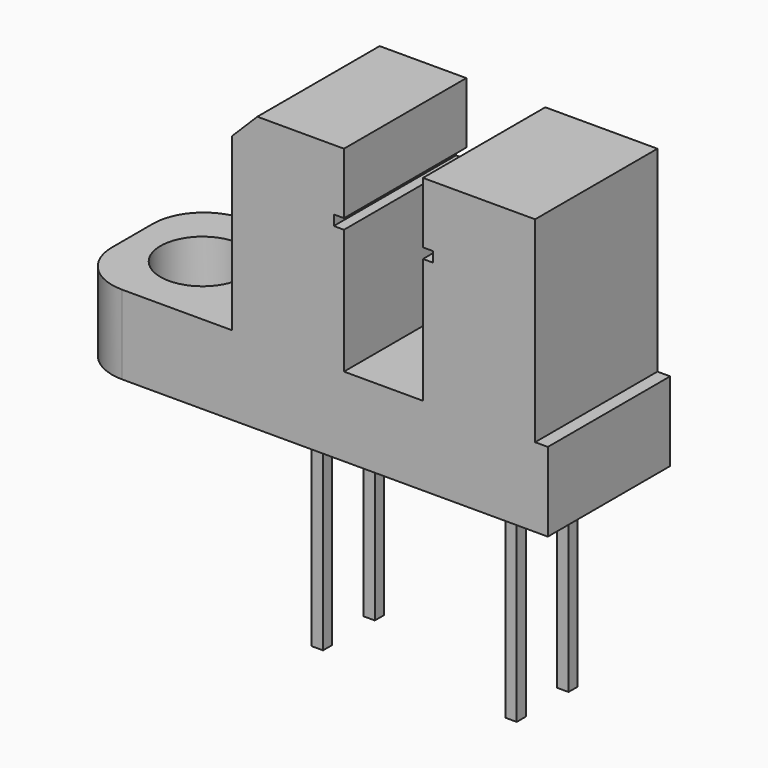
from build123d import *

# Parameters (mm, degrees)
F1_DEPTH = 6
F2_R     = 2
F3_R     = 1.65
F4_DEPTH = 3.1
F3_W     = 0.45
F3_H     = 0.45
F5_DEPTH = 7.8
F6_R     = 1.65
F7_DEPTH = 3.1


with BuildPart() as f1:
    # F0 (on Front) → F1 (new body)
    with BuildSketch(Plane.XZ):
        Polygon((-12.25, 0), (12.25, 0), (12.25, 3.1), (5.95, 3.1), (5.95, 10.8), (1.55, 10.8), (1.55, 8.4), (1.95, 8.4), (1.95, 8), (1.55, 8), (1.55, 3.1), (-1.55, 3.1), (-1.55, 8), (-1.95, 8), (-1.95, 8.4), (-1.55, 8.4), (-1.55, 10.8), (-4.95, 10.8), (-5.95, 9.8), (-5.95, 3.1), (-12.25, 3.1), align=None)
    extrude(amount=-F1_DEPTH)

    # F2
    f2_edges = [f1.edges().sort_by_distance(p)[0] for p in [
        (-12.25, 0, 1.55),
        (12.25, 0, 1.55),
        (12.25, 6, 1.55),
        (-12.25, 6, 1.55),
    ]]
    fillet(f2_edges, radius=F2_R)

    # F3 (on face) → F4 (cut, through all)
    with BuildSketch(Plane(origin=(0, 0, 0), x_dir=(1, 0, 0), z_dir=(0, 0, -1))):
        with Locations((-9.5, -3)):
            Circle(F3_R)
        with Locations((9.5, -3)):
            Circle(F3_R)
    extrude(amount=-F4_DEPTH, mode=Mode.SUBTRACT)

    # F3 (on face) → F5 (join)
    with BuildSketch(Plane(origin=(0, 0, 0), x_dir=(1, 0, 0), z_dir=(0, 0, -1))):
        with Locations((-3.8, -1.73)):
            Rectangle(F3_W, F3_H)
        with Locations((-3.8, -4.27)):
            Rectangle(F3_W, F3_H)
        with Locations((3.8, -4.27)):
            Rectangle(F3_W, F3_H)
        with Locations((3.8, -1.73)):
            Rectangle(F3_W, F3_H)
    extrude(amount=F5_DEPTH)

    # F6 (on face) → F7 (cut, through all)
    with BuildSketch(Plane.XY.offset(3.1)):
        with BuildLine():
            Line((10.25, 6), (6.45, 6))
            Line((6.45, 6), (6.45, 0))
            Line((6.45, 0), (10.25, 0))
            ThreePointArc((10.25, 0), (11.6642135624, 0.5857864376), (12.25, 2))
            Line((12.25, 2), (12.25, 4))
            ThreePointArc((12.25, 4), (11.6642135624, 5.4142135624), (10.25, 6))
        make_face()
        with Locations((9.5, 3)):
            Circle(F6_R, mode=Mode.SUBTRACT)
    extrude(amount=-F7_DEPTH, mode=Mode.SUBTRACT)


solid = f1.part
